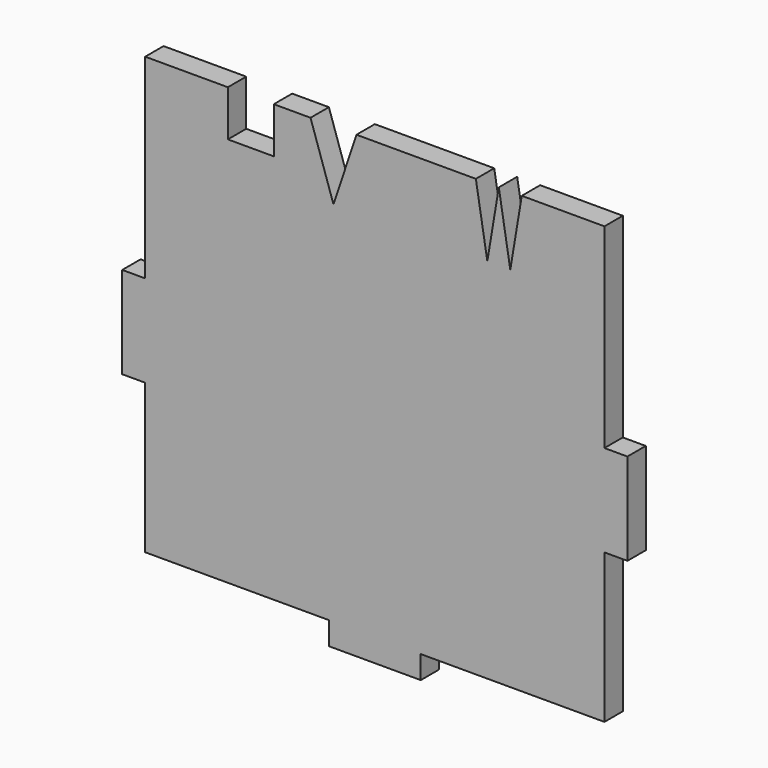
from build123d import *

# Parameters (mm, degrees)
F0_W     = 3.175
F0_H     = 12.7
F0_W_2   = 12.7
F0_H_2   = 3.175
F1_DEPTH = 3.175


with BuildPart() as f1:
    # F0 (on Front) → F1 (new body)
    with BuildSketch(Plane.XZ):
        Polygon((-20.32, 30.1625), (-31.75, 30.1625), (-31.75, 3.175), (-31.75, -9.525), (-31.75, -30.1625), (-6.35, -30.1625), (6.35, -30.1625), (31.75, -30.1625), (31.75, -9.525), (31.75, 3.175), (31.75, 30.1625), (20.32, 30.1625), (18.7325, 20.6375), (17.145, 30.1625), (15.5575, 20.6375), (13.97, 30.1625), (-2.54, 30.1625), (-5.715, 20.6375), (-8.89, 30.1625), (-13.97, 30.1625), (-13.97, 23.8125), (-20.32, 23.8125), align=None)
        with Locations((33.3375, -3.175)):
            Rectangle(F0_W, F0_H)
        with Locations((0, -31.75)):
            Rectangle(F0_W_2, F0_H_2)
        with Locations((-33.3375, -3.175)):
            Rectangle(F0_W, F0_H)
    extrude(amount=F1_DEPTH)


solid = f1.part
